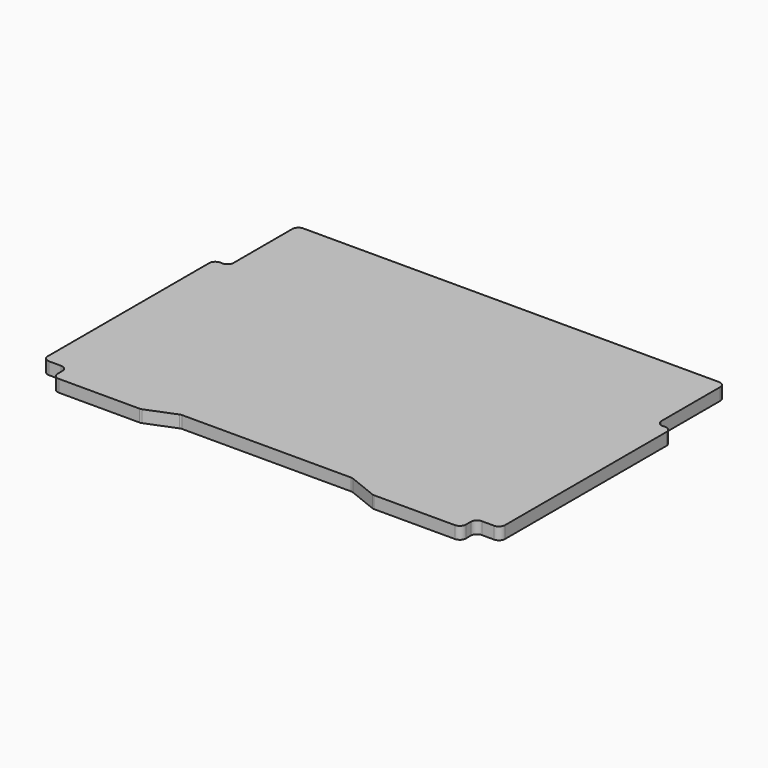
from build123d import *

# Parameters (mm, degrees)
PAD_DEPTH = 10
FILLET_R  = 5


with BuildPart() as part:
    # Sketch → Pad (new body)
    with BuildSketch(Plane.XY):
        Polygon((0, 0), (-70, 0), (-95, -10), (-167, -10), (-167, 5), (-187, 5), (-187, 180), (-175, 180), (-175, 250), (0, 250), (175, 250), (175, 180), (187, 180), (187, 5), (167, 5), (167, -10), (95, -10), (70, 0), align=None)
    extrude(amount=PAD_DEPTH)

    # Fillet
    fillet_edges = [part.edges().sort_by_distance(p)[0] for p in [
        (-70, 0, 5),
        (70, 0, 5),
        (95, -10, 5),
        (167, -10, 5),
        (167, 5, 5),
        (187, 5, 5),
        (187, 180, 5),
        (175, 250, 5),
        (175, 180, 5),
        (-175, 250, 5),
        (-175, 180, 5),
        (-187, 180, 5),
        (-187, 5, 5),
        (-167, 5, 5),
        (-167, -10, 5),
        (-95, -10, 5),
    ]]
    fillet(fillet_edges, radius=FILLET_R)


solid = part.part
